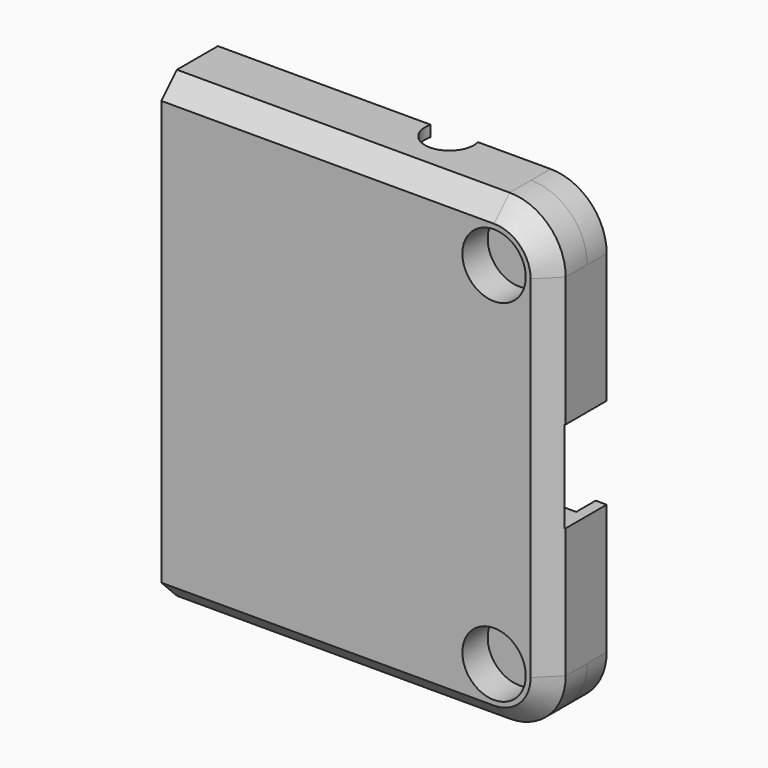
from build123d import *

# Parameters (mm, degrees)
CYLINDER003_R     = 2
CYLINDER003_DEPTH = 10
CYLINDER001_R     = 2
CYLINDER001_DEPTH = 10
SKETCH037_W       = 7.5
SKETCH037_H       = 7.5
EXTRUDE045_DEPTH  = 10
SKETCH032_R       = 2.6
EXTRUDE043_DEPTH  = 0.8
EXTRUDE050_DEPTH  = 3
EXTRUDE051_DEPTH  = 0.8
EXTRUDE038_DEPTH  = 2


with BuildPart() as shutter_cable001:
    # Cylinder003 → Cylinder003 (new body)
    with BuildSketch(Plane(origin=(19.5, 0, 24.5), x_dir=(1, 0, 0), z_dir=(0, 0, 1))):
        Circle(CYLINDER003_R)
    extrude(amount=CYLINDER003_DEPTH)


with BuildPart() as battery_cable:
    # Cylinder001 → Cylinder001 (new body)
    with BuildSketch(Plane(origin=(-70.5, 0, 12), x_dir=(0, 0, 1), z_dir=(-1, 0, 0))):
        Circle(CYLINDER001_R)
    extrude(amount=CYLINDER001_DEPTH)


with BuildPart() as common_sub:
    # Sketch037 → Extrude045 (new body)
    with BuildSketch(Plane.YZ.offset(35)):
        with Locations((0, 12)):
            Rectangle(SKETCH037_W, SKETCH037_H)
    extrude(amount=EXTRUDE045_DEPTH)


with BuildPart() as common_sub_1:
    # Extrude045 placement: moved
    add(common_sub.part.moved(Location((-9.5, 0, 0))))

    # Fusion033: union shutter cable001, battery cable
    add(shutter_cable001.part)
    add(battery_cable.part)


with BuildPart() as sweep_body:
    # Sweep: sweep along a path in Sketch034
    with BuildLine(Plane.XZ.offset(10)) as sweep_path:
        Line((32, 12), (32, 26.4))
        ThreePointArc((32, 26.4), (30.652691, 29.652691), (27.4, 31))
        Line((27.4, 31), (-39.9, 31))
    # Sketch033 → Sweep (sweep)
    with BuildSketch(Plane.YZ):
        Polygon((-5.3, 29.4), (-3.7, 31), (-3.7, 32), (-6, 32), (-6, 29.4), align=None)
    sweep(path=sweep_path.line)


with BuildPart() as fusion:
    # Sketch032 → Extrude043 (new body)
    with BuildSketch(Plane.XZ.offset(10)):
        with Locations((27.4, 26.4)):
            Circle(SKETCH032_R)
    extrude(amount=EXTRUDE043_DEPTH)


with BuildPart() as fusion_1:
    # Extrude043 placement: moved
    add(fusion.part.moved(Location((0, 5.5, 0))))

    # Fusion: union Sweep body
    add(sweep_body.part)


with BuildPart() as screw_hole_bottom002:
    # Sketch003 → Revolve (revolve)
    with BuildSketch(Plane.XY):
        Polygon((1.6, 3), (1.6, 2), (0, 2), (0, 1.8), (2.6, 1.8), (2.6, 0), (4.6, 0), (4.6, 3), align=None)
    revolve(axis=Axis((0, 0, 0), (0, 1, 0)))


with BuildPart() as screw_hole_bottom002_1:
    # Body003 placement: moved
    add(screw_hole_bottom002.part.moved(Location((27.4, -4.5, 26.4))))


with BuildPart() as bottom009:
    # Sketch041 → Extrude050 (new body)
    with BuildSketch(Plane.XZ.offset(10)):
        with BuildLine():
            ThreePointArc((32, 26.4), (30.652691, 29.652691), (27.4, 31))
            Line((27.4, 31), (0.1, 31))
            Line((0.1, 31), (0.1, 29))
            Line((0.1, 29), (27.4, 29))
            ThreePointArc((30, 26.4), (29.238478, 28.238478), (27.4, 29))
            Line((30, 12), (30, 26.4))
            Line((32, 12), (30, 12))
            Line((32, 26.4), (32, 12))
        make_face()
    extrude(amount=EXTRUDE050_DEPTH)


with BuildPart() as bottom009_1:
    # Extrude050 placement: moved
    add(bottom009.part.moved(Location((0, 8.5, 0))))


with BuildPart() as bottom010:
    # Sketch042 → Extrude051 (new body)
    with BuildSketch(Plane.XZ.offset(10)):
        with BuildLine():
            ThreePointArc((32, 26.4), (30.652691, 29.652691), (27.4, 31))
            Line((27.4, 31), (0.1, 31))
            Line((0.1, 31), (0.1, 12))
            Line((0.1, 12), (32, 12))
            Line((32, 26.4), (32, 12))
        make_face()
    extrude(amount=EXTRUDE051_DEPTH)


with BuildPart() as bottom010_1:
    # Extrude051 placement: moved
    add(bottom010.part.moved(Location((0, 5.5, 0))))


with BuildPart() as bottom:
    # Sketch030 → Extrude038 (new body)
    with BuildSketch(Plane.XZ.offset(10)):
        with BuildLine():
            ThreePointArc((32, 26.4), (30.652691, 29.652691), (27.4, 31))
            Line((27.4, 31), (0.1, 31))
            Line((0.1, 31), (0.1, 30.1))
            Line((0.1, 30.1), (27.4, 30.1))
            ThreePointArc((31.1, 26.4), (30.016295, 29.016295), (27.4, 30.1))
            Line((31.1, 12), (31.1, 26.4))
            Line((32, 12), (31.1, 12))
            Line((32, 26.4), (32, 12))
        make_face()
    extrude(amount=EXTRUDE038_DEPTH)


with BuildPart() as bottom_1:
    # Extrude038 placement: moved
    add(bottom.part.moved(Location((0, 10.5, 0))))

    # Fusion029: union screw hole bottom002, bottom009, bottom010
    add(screw_hole_bottom002_1.part)
    add(bottom009_1.part)
    add(bottom010_1.part)

    # Cut: cut Fusion
    add(fusion_1.part, mode=Mode.SUBTRACT)


with BuildPart() as part_mirroring004:
    # Part__Mirroring004: instance of bottom
    add(bottom_1.part.mirror(Plane(origin=(0, 0, 12), x_dir=(0, 1, 0), z_dir=(0, 0, 1))))


with BuildPart() as bottom007:
    # Fusion031 base: copy of bottom
    add(bottom_1.part)

    # Fusion031: union Part__Mirroring004
    add(part_mirroring004.part)

    # Cut026: cut common sub
    add(common_sub_1.part, mode=Mode.SUBTRACT)


solid = bottom007.part
